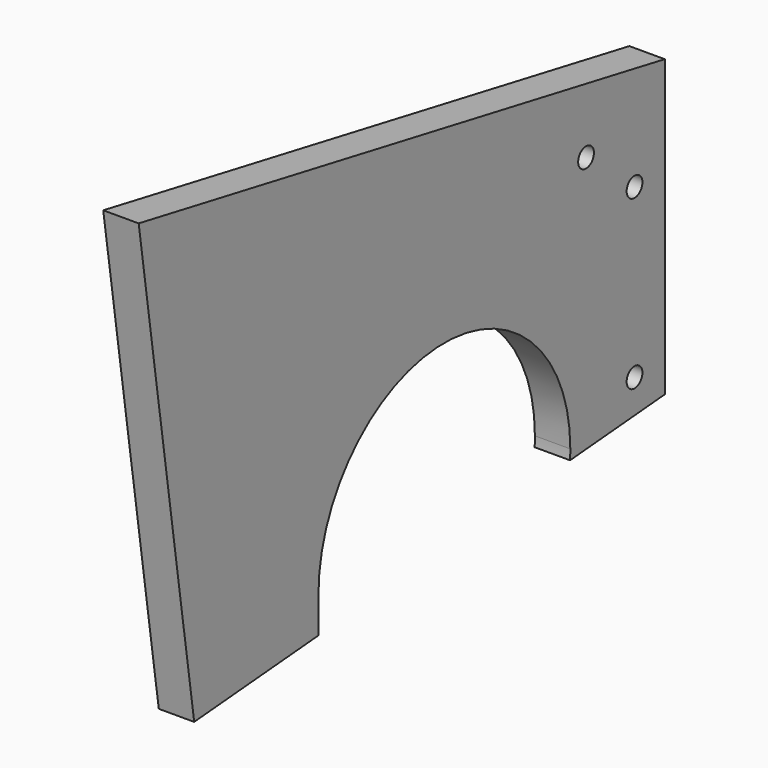
from build123d import *

# Parameters (mm, degrees)
F0_R      = 3.175
F1_DEPTH  = 11.43
F5_DEPTH  = 25.4
F6_D      = 6.35
F6_DEPTH  = 76.2
F6_TIP    = 1.9077324654
F7_D      = 6.35
F7_DEPTH  = 76.2
F7_TIP    = 1.9077324654
F8_D      = 6.35
F8_DEPTH  = 76.2
F8_TIP    = 1.9077324654
F9_D      = 6.35
F9_DEPTH  = 76.2
F9_TIP    = 1.9077324654
F11_DEPTH = 95.25


with BuildPart() as f1:
    # F0 (on Right) → F1 (new body)
    with BuildSketch(Plane.YZ):
        Polygon((122.1165703362, -43.8827651219), (122.1165703362, 51.3672348781), (-90.1177801321, 90.9827682114), (-67.7204277456, -59.7624426779), align=None)
        with Locations((109.9245703362, -34.0493256675)):
            Circle(F0_R, mode=Mode.SUBTRACT)
        with Locations((109.9245703362, 20.0526743325)):
            Circle(F0_R, mode=Mode.SUBTRACT)
        with Locations((90.3665703362, 36.3643222504)):
            Circle(F0_R, mode=Mode.SUBTRACT)
        with Locations((90.3665703362, 36.3643222504)):
            Circle(F0_R)
        with Locations((109.9245703362, 20.0526743325)):
            Circle(F0_R)
        with Locations((109.9245703362, -34.0493256675)):
            Circle(F0_R)
    extrude(amount=F1_DEPTH)


with BuildPart() as f1_1:
    # F2: moved
    add(f1.part.moved(Location((47.625, 0, 0))))


with BuildPart() as f3_1:
    # F3: instance of F1
    add(f1_1.part.mirror(Plane.YZ))

    # F4 (on face) → F5 (cut)
    with BuildSketch(Plane(origin=(-59.055, 0, 0), x_dir=(0, -1, 0), z_dir=(-1, 0, 0))):
        with BuildLine():
            ThreePointArc((17.5834296638, -43.8827651219), (-33.2165703362, 6.9172348781), (-84.0165703362, -43.8827651219))
            ThreePointArc((-84.0165703362, -43.8827651219), (-83.9914140751, -45.4812779607), (-83.9159702065, -47.0782076259))
            Line((-83.9159702065, -47.0782076259), (16.2473795848, -55.4567729935))
            ThreePointArc((16.2473795848, -55.4567729935), (17.2483117898, -49.7081983252), (17.5834296638, -43.8827651219))
        make_face()
        with BuildLine():
            Line((17.5834296638, -55.5685322642), (17.5834296638, -43.8827651219))
            ThreePointArc((17.5834296638, -43.8827651219), (17.2483117898, -49.7081983252), (16.2473795848, -55.4567729935))
            Line((16.2473795848, -55.4567729935), (17.5834296638, -55.5685322642))
        make_face()
    extrude(amount=-F5_DEPTH, mode=Mode.SUBTRACT)

    # F6
    with Locations(Plane.YZ):
        with Locations((90.3665703362, 36.3643222504)):
            Hole(F6_D / 2, depth=F6_DEPTH)
            with Locations((0, 0, -(F6_DEPTH + F6_TIP / 2))):  # 118° drill point
                Cone(0, F6_D / 2, F6_TIP, mode=Mode.SUBTRACT)

    # F7
    with Locations(Plane.YZ):
        with Locations((109.9245703362, 20.0526743325)):
            Hole(F7_D / 2, depth=F7_DEPTH)
            with Locations((0, 0, -(F7_DEPTH + F7_TIP / 2))):  # 118° drill point
                Cone(0, F7_D / 2, F7_TIP, mode=Mode.SUBTRACT)

    # F8
    with Locations(Plane.YZ):
        with Locations((109.9245703362, -34.0493256675)):
            Hole(F8_D / 2, depth=F8_DEPTH)
            with Locations((0, 0, -(F8_DEPTH + F8_TIP / 2))):  # 118° drill point
                Cone(0, F8_D / 2, F8_TIP, mode=Mode.SUBTRACT)


with BuildPart() as f1_2:
    add(f1_1.part)

    # F9
    with Locations(Plane(origin=(0, 0, 0), x_dir=(0, 1, 0), z_dir=(-1, 0, 0))):
        with Locations((90.3665703362, -36.3643222504)):
            Hole(F9_D / 2, depth=F9_DEPTH)
            with Locations((0, 0, -(F9_DEPTH + F9_TIP / 2))):  # 118° drill point
                Cone(0, F9_D / 2, F9_TIP, mode=Mode.SUBTRACT)


with BuildPart() as f11:
    # F10 (on face) → F11 (new body)
    with BuildSketch(Plane(origin=(47.625, 0, 0), x_dir=(0, -1, 0), z_dir=(-1, 0, 0))):
        with BuildLine():
            Line((46.0226261079, 141.3909337274), (55.0595276774, 113.1756901692))
            ThreePointArc((55.0595276774, 113.1756901692), (61.2467442889, 100.0992346093), (66.2609327925, 86.5296637591))
            Line((66.2609327925, 86.5296637591), (48.4415836851, 142.1656880364))
            Line((48.4415836851, 142.1656880364), (46.0226261079, 141.3909337274))
        make_face()
        with BuildLine():
            Line((55.0595276774, 113.1756901692), (63.7442887749, 86.0599085345))
            Line((63.7442887749, 86.0599085345), (66.2609327925, 86.5296637591))
            ThreePointArc((66.2609327925, 86.5296637591), (61.2467442889, 100.0992346093), (55.0595276774, 113.1756901692))
        make_face()
        with BuildLine():
            Line((63.7442887749, 86.0599085345), (63.7439748969, 86.0598499462))
            ThreePointArc((63.7439748969, 86.0598499462), (69.5928864987, 61.5174094181), (71.5584296638, 36.3643222504))
            ThreePointArc((71.5584296638, 36.3643222504), (66.8411203346, -2.4357759317), (52.9640480804, -38.9751723676))
            Line((52.9640480804, -38.9751723676), (55.2290606215, -40.1252095237))
            ThreePointArc((55.2290606215, -40.1252095237), (69.3114207434, -3.0269888444), (74.0984296638, 36.3643222504))
            ThreePointArc((74.0984296638, 36.3643222504), (72.1272426646, 61.7512669557), (66.2609327925, 86.5296637591))
            Line((66.2609327925, 86.5296637591), (63.7442887749, 86.0599085345))
        make_face()
    extrude(amount=F11_DEPTH)


solid = f3_1.part
